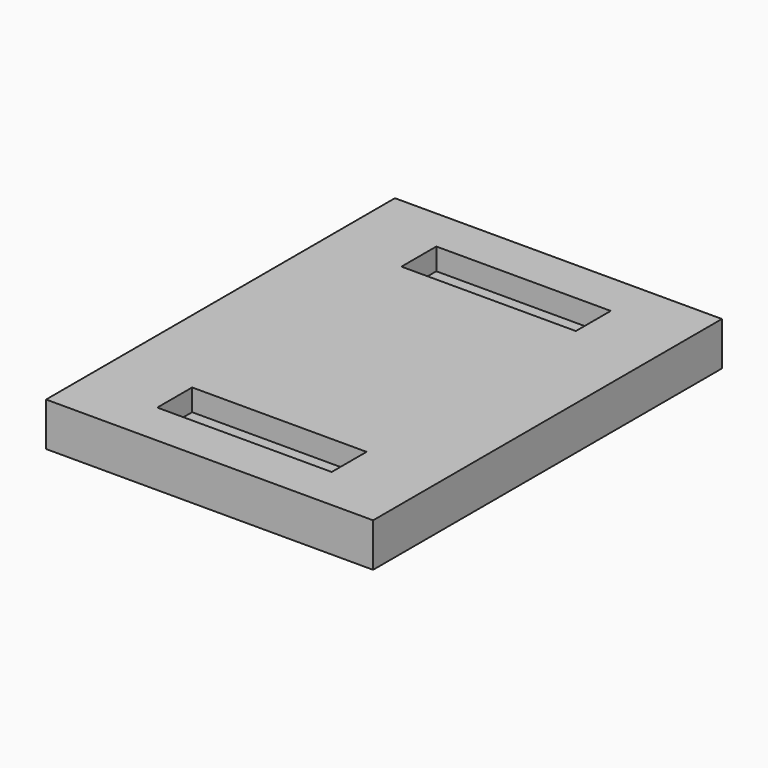
from build123d import *

# Parameters (mm, degrees)
F0_W     = 75
F0_H     = 100
F1_DEPTH = 10
F2_W     = 40
F2_H     = 10
F3_DEPTH = 5


with BuildPart() as f1:
    # F0 (on Top) → F1 (new body)
    with BuildSketch(Plane.XY):
        Rectangle(F0_W, F0_H)
    extrude(amount=F1_DEPTH)

    # F2 (on face) → F3 (cut)
    with BuildSketch(Plane.XY.offset(10)):
        with Locations((0, 35)):
            Rectangle(F2_W, F2_H)
        with Locations((0, -35)):
            Rectangle(F2_W, F2_H)
    extrude(amount=-F3_DEPTH, mode=Mode.SUBTRACT)


solid = f1.part
